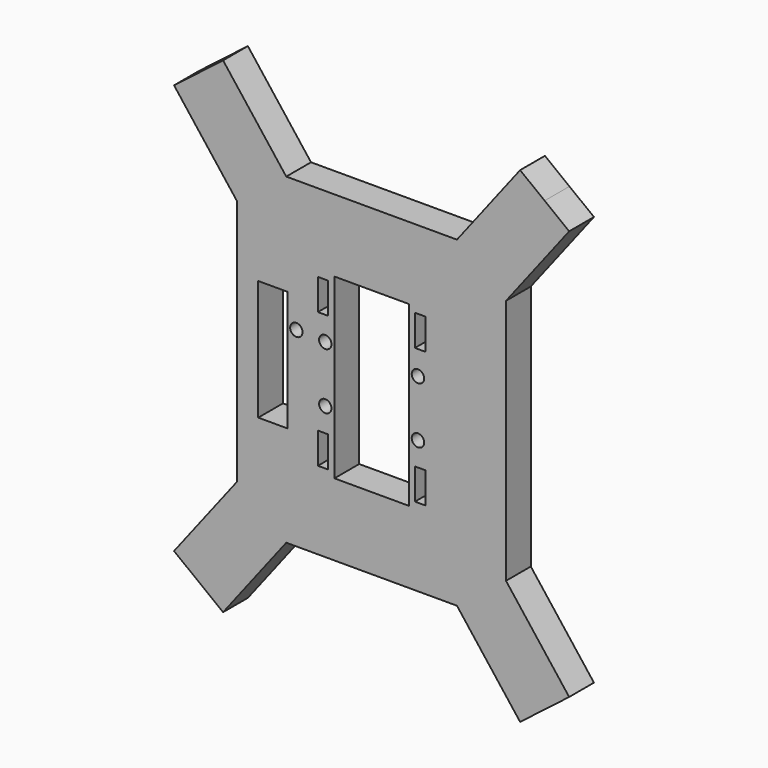
from build123d import *

# Parameters (mm, degrees)
F0_W     = 5
F0_H     = 15
F0_R     = 3
F1_DEPTH = 15


with BuildPart() as f1:
    # F0 (on Front) → F1 (new body)
    with BuildSketch(Plane.XZ):
        Polygon((41.31622, 78), (0, 78), (-41.31622, 78), (-71.888595, 117.56425), (-83.75787, 108.392538), (-95.627145, 99.220825), (-65.05477, 59.656575), (-65.05477, -59.656575), (-95.627145, -99.220825), (-83.75787, -108.392538), (-71.888595, -117.56425), (-41.31622, -78), (0, -78), (41.31622, -78), (71.888595, -117.56425), (83.75787, -108.392538), (95.627145, -99.220825), (65.05477, -59.656575), (65.05477, 59.656575), (95.627145, 99.220825), (83.75787, 108.392538), (71.888595, 117.56425), align=None)
        Polygon((-54.868631, -29.103488), (-54.868631, 29.103488), (-40.797416, 29.103488), (-40.797416, -29.103488), (-40.797416, -29.12136), (-54.868631, -29.12136), align=None, mode=Mode.SUBTRACT)
        with Locations((-23.48763, -32.743398)):
            Rectangle(F0_W, F0_H, mode=Mode.SUBTRACT)
        with Locations((-22.42565, -13.666067)):
            Circle(F0_R, mode=Mode.SUBTRACT)
        with Locations((23.48763, -32.743398)):
            Rectangle(F0_W, F0_H, mode=Mode.SUBTRACT)
        Polygon((18, -43), (0, -43), (-18, -43), (-18, 0), (-18, 43), (0, 43), (18, 43), (18, 0), align=None, mode=Mode.SUBTRACT)
        with Locations((22.42565, -13.666067)):
            Circle(F0_R, mode=Mode.SUBTRACT)
        with Locations((-36.421202, 14.27218)):
            Circle(F0_R, mode=Mode.SUBTRACT)
        with Locations((-22.42565, 13.666067)):
            Circle(F0_R, mode=Mode.SUBTRACT)
        with Locations((-23.48763, 32.743398)):
            Rectangle(F0_W, F0_H, mode=Mode.SUBTRACT)
        with Locations((22.42565, 13.666067)):
            Circle(F0_R, mode=Mode.SUBTRACT)
        with Locations((23.48763, 32.743398)):
            Rectangle(F0_W, F0_H, mode=Mode.SUBTRACT)
    extrude(amount=F1_DEPTH)


solid = f1.part
